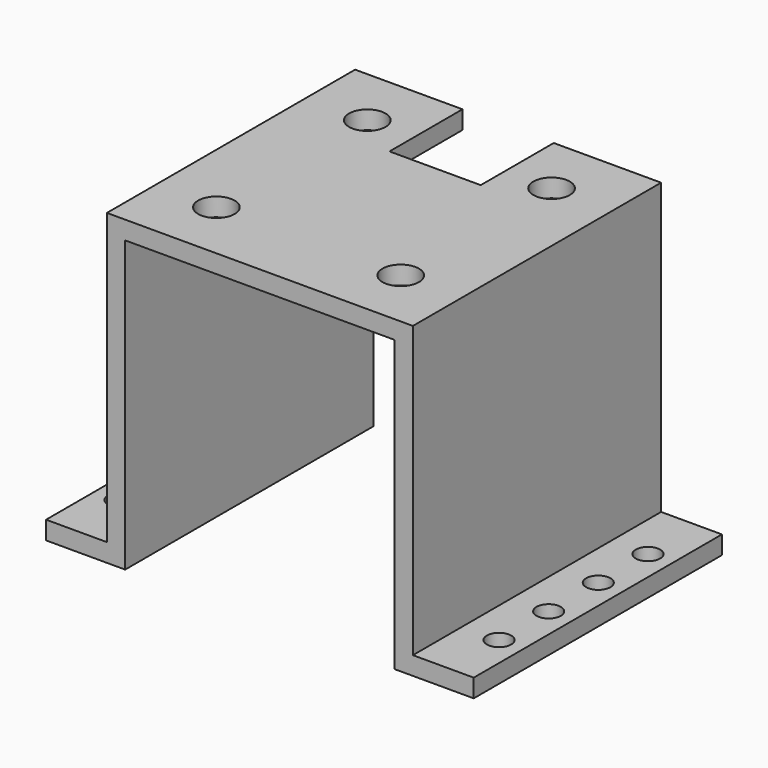
from build123d import *

# Parameters (mm, degrees)
SKETCH_W        = 70.3
SKETCH_H        = 51
PAD_DEPTH       = 50.65
SKETCH001_W     = 44.3
SKETCH001_H     = 47.65
SKETCH001_W_2   = 10
POCKET_DEPTH    = 51.001
SKETCH002_R     = 3
SKETCH002_R_2   = 2
SKETCH002_W     = 15
SKETCH002_H     = 15
POCKET001_DEPTH = 50.651


with BuildPart() as part:
    # Sketch → Pad (new body)
    with BuildSketch(Plane.XY):
        with Locations((35.15, 25.5)):
            Rectangle(SKETCH_W, SKETCH_H)
    extrude(amount=PAD_DEPTH)

    # Sketch001 → Pocket (cut, through all)
    with BuildSketch(Plane.XZ):
        with Locations((35.15, 23.825)):
            Rectangle(SKETCH001_W, SKETCH001_H)
        with Locations((5, 26.825)):
            Rectangle(SKETCH001_W_2, SKETCH001_H)
        with Locations((65.3, 26.825)):
            Rectangle(SKETCH001_W_2, SKETCH001_H)
    extrude(amount=-POCKET_DEPTH, mode=Mode.SUBTRACT)

    # Sketch002 → Pocket001 (cut, through all)
    with BuildSketch(Plane.XY.offset(50.65)):
        with Locations((20, 41)):
            Circle(SKETCH002_R)
        with Locations((50.3, 41)):
            Circle(SKETCH002_R)
        with Locations((20, 10)):
            Circle(SKETCH002_R)
        with Locations((50.3, 10)):
            Circle(SKETCH002_R)
        with Locations((4, 40.8)):
            Circle(SKETCH002_R_2)
        with Locations((4, 30.6)):
            Circle(SKETCH002_R_2)
        with Locations((4, 20.4)):
            Circle(SKETCH002_R_2)
        with Locations((4, 10.2)):
            Circle(SKETCH002_R_2)
        with Locations((66.3, 40.8)):
            Circle(SKETCH002_R_2)
        with Locations((66.3, 30.6)):
            Circle(SKETCH002_R_2)
        with Locations((66.3, 20.4)):
            Circle(SKETCH002_R_2)
        with Locations((66.3, 10.2)):
            Circle(SKETCH002_R_2)
        with Locations((35.15, 43.5)):
            Rectangle(SKETCH002_W, SKETCH002_H)
    extrude(amount=-POCKET001_DEPTH, mode=Mode.SUBTRACT)


solid = part.part
